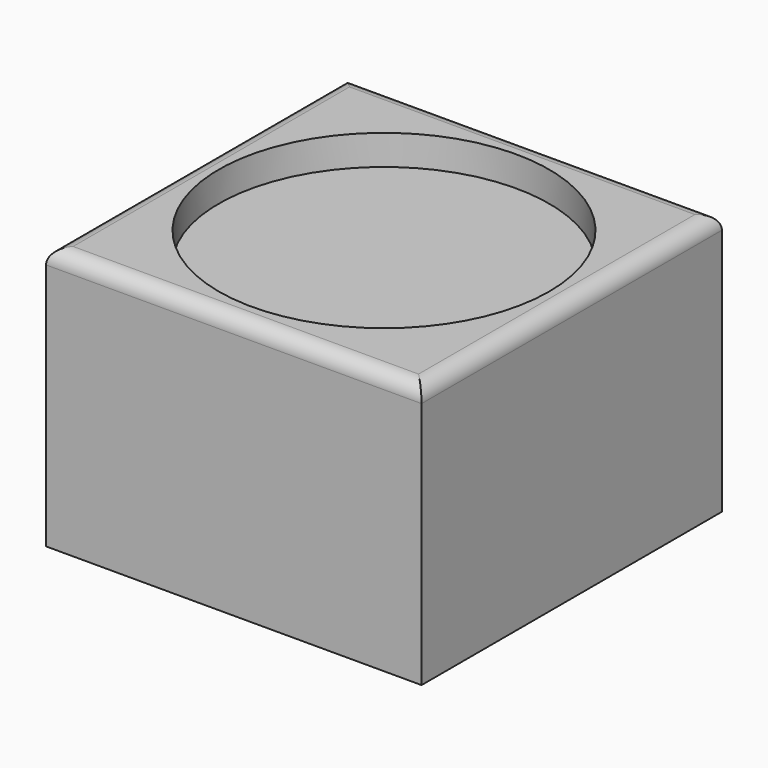
from build123d import *

# Parameters (mm, degrees)
F0_W      = 63.5
F0_H      = 63.5
F1_DEPTH  = 44.45
F2_R      = 27.94
F3_DEPTH  = 5.08
F4_W      = 50.8
F4_H      = 19.05
F5_DEPTH  = 50.8
F7_R      = 1.905
F6_R      = 1.905
F8_DEPTH  = 1.27
F9_R      = 2.54
F10_W     = 2.54
F10_H     = 2.54
F11_DEPTH = 50.8


with BuildPart() as f1:
    # F0 (on Top) → F1 (new body)
    with BuildSketch(Plane.XY):
        Rectangle(F0_W, F0_H)
    extrude(amount=F1_DEPTH)

    # F2 (on face) → F3 (cut)
    with BuildSketch(Plane.XY.offset(44.45)):
        Circle(F2_R)
    extrude(amount=-F3_DEPTH, mode=Mode.SUBTRACT)

    # F4 (on face) → F5 (cut)
    with BuildSketch(Plane(origin=(-31.75, 0, 0), x_dir=(0, -1, 0), z_dir=(-1, 0, 0))):
        with Locations((0, 22.225)):
            Rectangle(F4_W, F4_H)
    extrude(amount=-F5_DEPTH, mode=Mode.SUBTRACT)

    # F7 (on face) + F6 (on face) → F8 (cut, symmetric)
    with BuildSketch(Plane(origin=(0, -25.4, 0), x_dir=(-1, 0, 0), z_dir=(0, 1, 0))):
        with Locations((29.21, 15.24)):
            Circle(F7_R)
    with BuildSketch(Plane.XZ.offset(-25.4)):
        with Locations((-29.21, 15.24)):
            Circle(F6_R)
    extrude(amount=F8_DEPTH, both=True, mode=Mode.SUBTRACT)

    # F9
    f9_edges = [f1.edges().sort_by_distance(p)[0] for p in [
        (0, 31.75, 44.45),
        (-31.75, 0, 44.45),
        (31.75, 0, 44.45),
        (0, -31.75, 44.45),
    ]]
    fillet(f9_edges, radius=F9_R)

    # F10 (on face) → F11 (join)
    with BuildSketch(Plane.XZ.offset(-25.4)):
        with Locations((-26.035, 30.226)):
            Rectangle(F10_W, F10_H)
    extrude(amount=F11_DEPTH)


solid = f1.part
